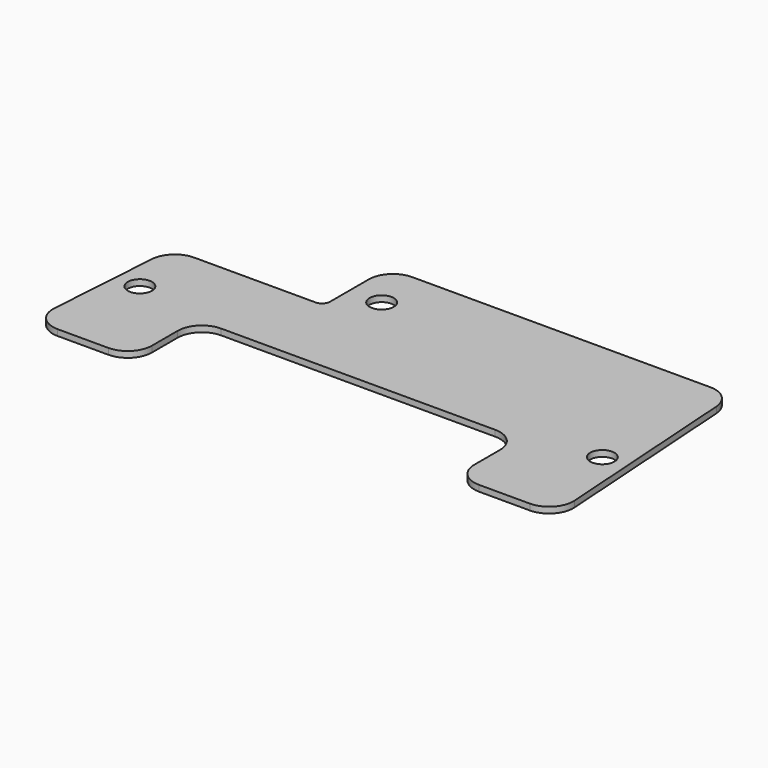
from build123d import *

# Parameters (mm, degrees)
F1_DEPTH = 9.525
F2_R     = 38.1
F3_DEPTH = 19.051
F4_R     = 38.1
F5_DEPTH = 19.051
F6_R     = 38.1
F7_DEPTH = 25.4


with BuildPart() as f1:
    # F0 (on Top) → F1 (new body, symmetric)
    with BuildSketch(Plane.XY):
        with BuildLine():
            Line((703.410854, 381), (-235.882083, 381))
            ThreePointArc((-235.882083, 381), (-289.76362, 358.681537), (-312.082083, 304.8))
            Line((-312.082083, 304.8), (-312.082083, 152.4))
            ThreePointArc((-312.082083, 152.4), (-319.521571, 134.439488), (-337.482083, 127))
            Line((-337.482083, 127), (-720.344188, 127))
            ThreePointArc((-720.344188, 127), (-772.402815, 106.44476), (-796.375417, 55.868749))
            Line((-796.375417, 55.868749), (-820.082083, -299.731251))
            ThreePointArc((-820.082083, -299.731251), (-799.695614, -356.858627), (-744.050854, -381))
            Line((-744.050854, -381), (-584.2, -381))
            ThreePointArc((-584.2, -381), (-530.318463, -358.681537), (-508, -304.8))
            Line((-508, -304.8), (-508, -203.2))
            ThreePointArc((-508, -203.2), (-485.681537, -149.318463), (-431.8, -127))
            Line((-431.8, -127), (431.8, -127))
            ThreePointArc((431.8, -127), (485.681537, -149.318463), (508, -203.2))
            Line((508, -203.2), (508, -304.8))
            ThreePointArc((508, -304.8), (530.318463, -358.681537), (584.2, -381))
            Line((584.2, -381), (744.050854, -381))
            ThreePointArc((744.050854, -381), (799.695614, -356.858627), (820.082083, -299.731251))
            Line((820.082083, -299.731251), (779.442083, 309.868749))
            ThreePointArc((779.442083, 309.868749), (755.469482, 360.44476), (703.410854, 381))
        make_face()
    extrude(amount=F1_DEPTH, both=True)

    # F2 (on face) → F3 (cut, through all)
    with BuildSketch(Plane.XY.offset(9.525)):
        with Locations((-210.482083, 228.6)):
            Circle(F2_R)
    extrude(amount=-F3_DEPTH, mode=Mode.SUBTRACT)

    # F4 (on face) → F5 (cut, through all)
    with BuildSketch(Plane.XY.offset(9.525)):
        with Locations((-728.810854, -76.2)):
            Circle(F4_R)
    extrude(amount=-F5_DEPTH, mode=Mode.SUBTRACT)

    # F6 (on face) → F7 (cut)
    with BuildSketch(Plane.XY.offset(9.525)):
        with Locations((728.810854, -76.2)):
            Circle(F6_R)
    extrude(amount=-F7_DEPTH, mode=Mode.SUBTRACT)


solid = f1.part
